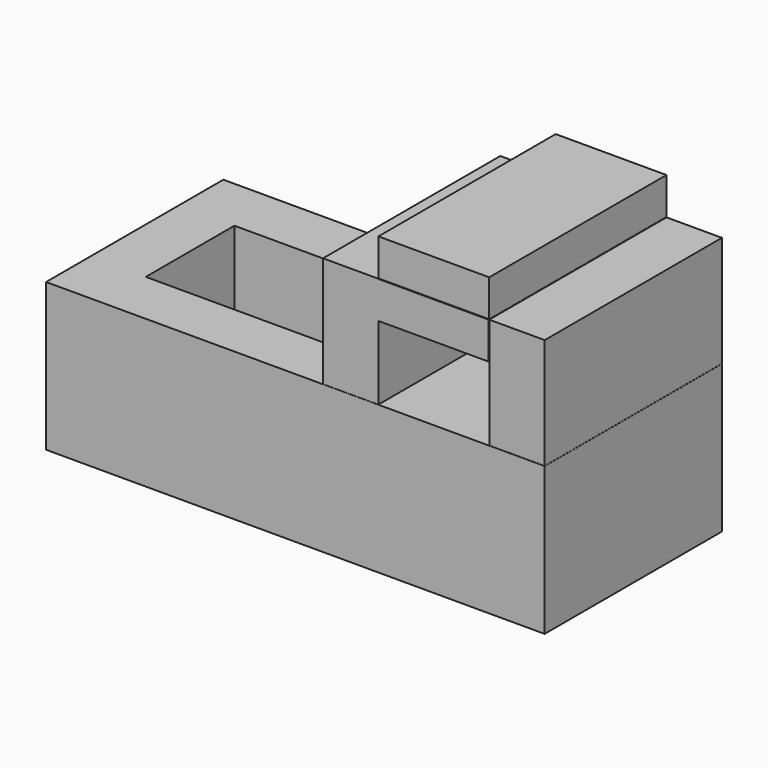
from build123d import *

# Parameters (mm, degrees)
F0_W      = 121.92
F0_H      = 81.28
F1_DEPTH  = 121.92
F2_W      = 30.48
F2_H      = 60.96
F3_DEPTH  = 121.92
F5_W      = 60.96
F5_H      = 20.32
F4_W      = 30.48
F4_H      = 60.96
F6_DEPTH  = 121.92
F7_W      = 60.96
F7_H      = 20.32
F8_DEPTH  = 121.92
F9_W      = 152.4
F9_H      = 81.28
F10_DEPTH = 121.92
F11_W     = 121.92
F11_H     = 60.96
F12_DEPTH = 60.96


with BuildPart() as f1:
    # F0 (on Front) → F1 (new body)
    with BuildSketch(Plane.XZ):
        with Locations((60.96, 40.64)):
            Rectangle(F0_W, F0_H)
    extrude(amount=F1_DEPTH)

    # F9 (on Front) → F10 (join)
    with BuildSketch(Plane.XZ):
        with Locations((-76.2, 40.64)):
            Rectangle(F9_W, F9_H)
    extrude(amount=F10_DEPTH)

    # F11 (on face) → F12 (cut)
    with BuildSketch(Plane.XY.offset(81.28)):
        with Locations((-60.96, -60.96)):
            Rectangle(F11_W, F11_H)
    extrude(amount=-F12_DEPTH, mode=Mode.SUBTRACT)


with BuildPart() as f3:
    # F2 (on Front) → F3 (new body)
    with BuildSketch(Plane.XZ):
        with Locations((15.24, 111.837151)):
            Rectangle(F2_W, F2_H)
    extrude(amount=F3_DEPTH)

    # F5 (on Front) + F4 (on Front) → F6 (join)
    with BuildSketch(Plane.XZ):
        with Locations((60.701704, 132.047918)):
            Rectangle(F5_W, F5_H)
    with BuildSketch(Plane.XZ):
        with Locations((106.717089, 111.855353)):
            Rectangle(F4_W, F4_H)
    extrude(amount=F6_DEPTH)


with BuildPart() as f8:
    # F7 (on Front) → F8 (new body)
    with BuildSketch(Plane.XZ):
        with Locations((60.96, 152.674706)):
            Rectangle(F7_W, F7_H)
    extrude(amount=F8_DEPTH)


solid = Compound([f1.part, f3.part, f8.part])
